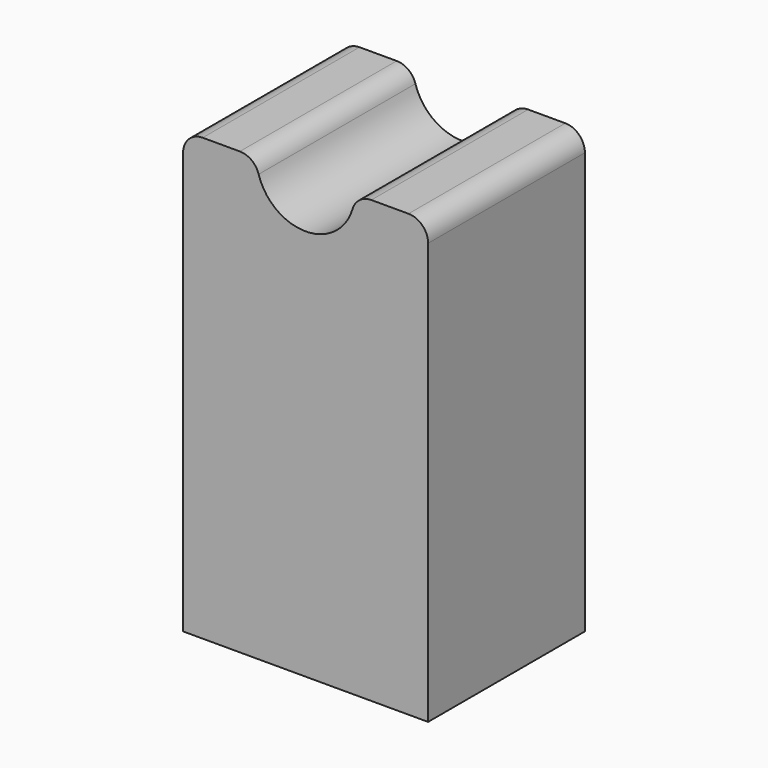
from build123d import *

# Parameters (mm, degrees)
F1_DEPTH = 50.8
F2_R     = 5.08
F3_R     = 5.08
F4_R     = 5.08
F5_R     = 5.08


with BuildPart() as f1:
    # F0 (on Front) → F1 (new body)
    with BuildSketch(Plane.XZ):
        with BuildLine():
            Line((0, 114.3), (0, 0))
            Line((0, 0), (63.5, 0))
            Line((63.5, 0), (63.5, 114.3))
            Line((63.5, 114.3), (44.45, 114.3))
            ThreePointArc((44.45, 114.3), (31.75, 101.6), (19.05, 114.3))
            Line((19.05, 114.3), (0, 114.3))
        make_face()
    extrude(amount=-F1_DEPTH)

    # F2
    f2_edges = [f1.edges().sort_by_distance(p)[0] for p in [
        (19.05, 25.4, 114.3),
    ]]
    fillet(f2_edges, radius=F2_R)

    # F3
    f3_edges = [f1.edges().sort_by_distance(p)[0] for p in [
        (44.45, 25.4, 114.3),
    ]]
    fillet(f3_edges, radius=F3_R)

    # F4
    f4_edges = [f1.edges().sort_by_distance(p)[0] for p in [
        (63.5, 25.4, 114.3),
    ]]
    fillet(f4_edges, radius=F4_R)

    # F5
    f5_edges = [f1.edges().sort_by_distance(p)[0] for p in [
        (0, 25.4, 114.3),
    ]]
    fillet(f5_edges, radius=F5_R)


solid = f1.part
